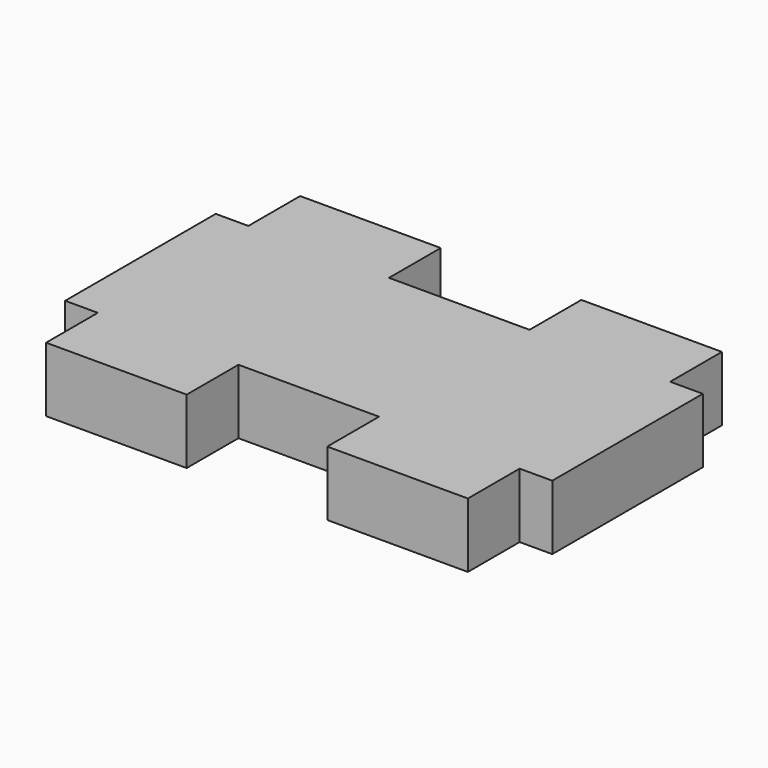
from build123d import *

# Parameters (mm, degrees)
F1_DEPTH = 5.842


with BuildPart() as f1:
    # F0 (on Top) → F1 (new body)
    with BuildSketch(Plane.XY):
        Polygon((-19.05, 8.5), (-22, 8.5), (-22, -8.5), (-19.05, -8.5), (-19.05, -14.342), (-6.35, -14.342), (-6.35, -8.5), (6.35, -8.5), (6.35, -14.342), (19.05, -14.342), (19.05, -8.5), (22, -8.5), (22, 8.5), (19.05, 8.5), (19.05, 14.342), (6.35, 14.342), (6.35, 8.5), (0, 8.5), (-6.35, 8.5), (-6.35, 14.342), (-19.05, 14.342), align=None)
    extrude(amount=F1_DEPTH)


solid = f1.part
